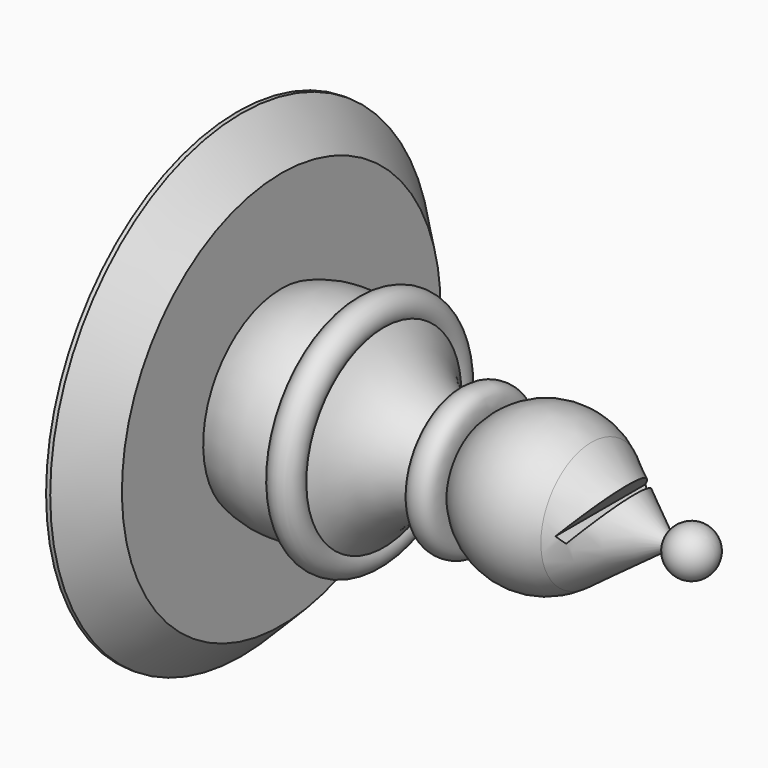
from build123d import *

# Parameters (mm, degrees)
F3_DEPTH = 12.7
F4_SIZE  = 1.5875


with BuildPart() as f1:
    # F0 (on Front) → F1 (revolve)
    with BuildSketch(Plane.XZ):
        with BuildLine():
            Line((-19.05, 0), (0, 0))
            ThreePointArc((0, 0), (-0.8154439902, 0.9367376524), (-1.8556055019, 0.258143252))
            Line((-1.8556055019, 0.258143252), (-4.9366613587, 2.5177319258))
            ThreePointArc((-4.9366613587, 2.5177319258), (-7.1160743184, 3.0782199038), (-9.1004914632, 2.0170525194))
            add(Edge.make_bspline(
                [(-9.1004914632, 2.0170525194), (-9.0348920267, 2.7156813272), (-9.6232644942, 3.1258050353), (-10.4357792433, 2.7243000189), (-10.3614320607, 1.8480558917)],
                knots=[0, 0, 0, 0, 0.4748330346, 1, 1, 1, 1], degree=3))
            ThreePointArc((-10.3614320607, 1.8480558917), (-11.9820298371, 2.5760316776), (-13.2084923798, 3.8613625802))
            ThreePointArc((-13.2084923798, 3.8613625802), (-13.7738747057, 4.7772025554), (-14.3392570317, 3.8613625802))
            ThreePointArc((-14.3392570317, 3.8613625802), (-15.8159361724, 4.1676274604), (-17.2979366034, 3.888245672))
            Line((-17.2979366034, 3.888245672), (-17.2979366034, 9.525))
            Line((-17.2979366034, 9.525), (-19.05, 9.525))
            Line((-19.05, 9.525), (-19.05, 0))
        make_face()
    revolve(axis=Axis((-9.525, 0, 0), (-1, 0, 0)))

    # F2 (on Front) → F3 (cut, symmetric)
    with BuildSketch(Plane.XZ):
        Polygon((-3.0518410046, 1.4299241076), (-3.3710291349, 1.6291189579), (-4.5796369454, 0.2442480844), (-4.299767781, 0), align=None)
    extrude(amount=F3_DEPTH, both=True, mode=Mode.SUBTRACT)

    # F4
    f4_edges = [f1.edges().sort_by_distance(p)[0] for p in [
        (-17.297937, 0, -9.525),
    ]]
    chamfer(f4_edges, length=F4_SIZE)


solid = f1.part
